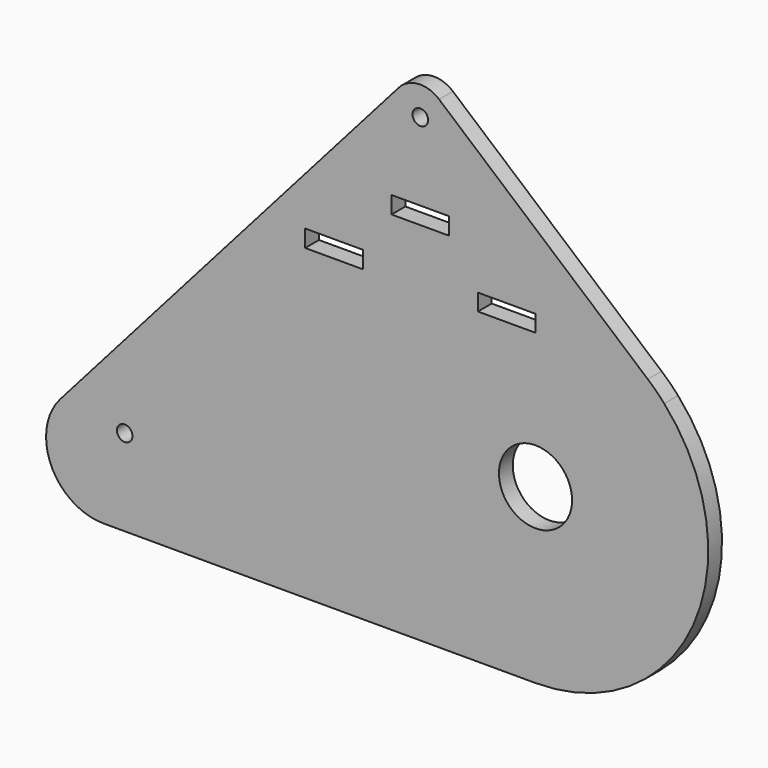
from build123d import *

# Parameters (mm, degrees)
F0_W     = 10
F0_H     = 2.98
F0_H_2   = 2.9
F0_R     = 1.35
F0_R_2   = 6.35
F1_DEPTH = 3


with BuildPart() as f1:
    # F0 (on Front) → F1 (new body)
    with BuildSketch(Plane.XZ):
        with BuildLine():
            Line((-33.090456, 6.49), (42.36068, 6.49))
            ThreePointArc((42.36068, 6.49), (40.976304, 7.937486), (39.498428, 9.289371))
            Line((39.498428, 9.289371), (3.249738, 40.289895))
            ThreePointArc((3.249738, 40.289895), (-0.352498, 41.477559), (-3.751884, 39.795052))
            Line((-3.751884, 39.795052), (-33.090456, 6.49))
        make_face()
        with Locations((-15, 11.49)):
            Rectangle(F0_W, F0_H, mode=Mode.SUBTRACT)
        with Locations((0, 21.49)):
            Rectangle(F0_W, F0_H, mode=Mode.SUBTRACT)
        with Locations((15, 11.49)):
            Rectangle(F0_W, F0_H_2, mode=Mode.SUBTRACT)
        with Locations((0, 36.49)):
            Circle(F0_R, mode=Mode.SUBTRACT)
        with BuildLine():
            ThreePointArc((20, -43.51), (47.386128, -25.757449), (42.36068, 6.49))
            Line((42.36068, 6.49), (-33.090456, 6.49))
            Line((-33.090456, 6.49), (-62.503768, -26.899897))
            ThreePointArc((-62.503768, -26.899897), (-64.113206, -37.626975), (-55, -43.51))
            Line((-55, -43.51), (20, -43.51))
        make_face()
        with Locations((-55, -33.51)):
            Circle(F0_R, mode=Mode.SUBTRACT)
        with Locations((-51.35, -28.51)):
            Circle(F0_R, mode=Mode.SUBTRACT)
        with Locations((20, -13.51)):
            Circle(F0_R_2, mode=Mode.SUBTRACT)
        with Locations((-55, -33.51)):
            Circle(F0_R)
    extrude(amount=F1_DEPTH)


solid = f1.part
